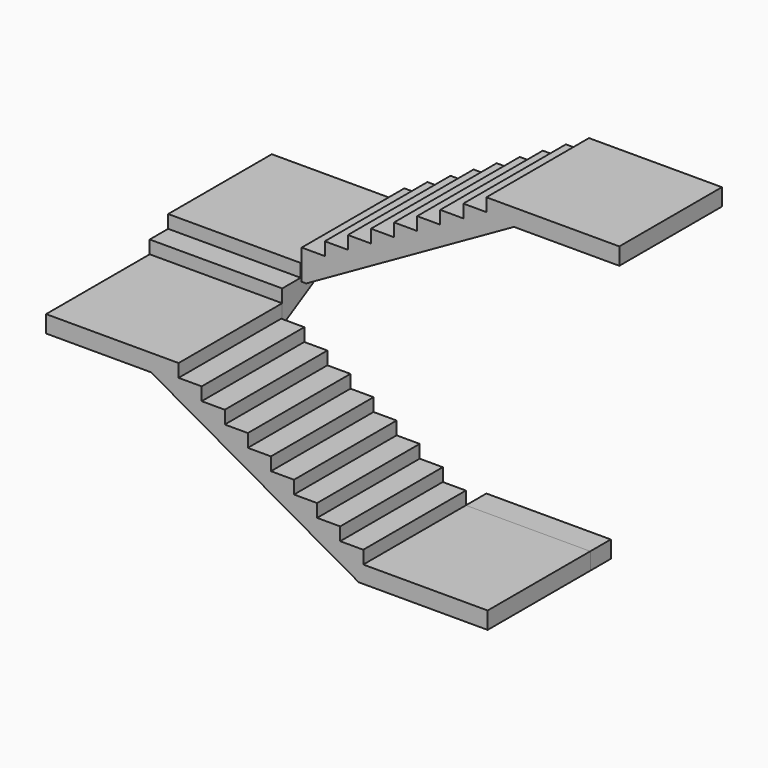
from build123d import *

# Parameters (mm, degrees)
F1_DEPTH = 1500
F3_DEPTH = 15
F5_DEPTH = 1550
F7_DEPTH = 1500
F8_W     = 1455
F8_H     = 200
F9_DEPTH = 300


with BuildPart() as f1:
    # F0 (on Front) → F1 (new body)
    with BuildSketch(Plane.XZ):
        Polygon((-1349.291039, -2094.70706), (-2899.291039, -2094.70706), (-2899.291039, -2294.70706), (-1671.869022, -2294.70706), (-1447.649354, -2421.34965), (712.350646, -3641.34965), (758.130978, -3667.20706), (2265.708961, -3667.20706), (2265.708961, -3467.20706), (810.708961, -3467.20706), (810.708961, -3314.70706), (540.708961, -3314.70706), (540.708961, -3162.20706), (270.708961, -3162.20706), (270.708961, -3009.70706), (0.708961, -3009.70706), (0.708961, -2857.20706), (-269.291039, -2857.20706), (-269.291039, -2704.70706), (-539.291039, -2704.70706), (-539.291039, -2552.20706), (-809.291039, -2552.20706), (-809.291039, -2399.70706), (-1079.291039, -2399.70706), (-1079.291039, -2247.20706), (-1349.291039, -2247.20706), align=None)
    extrude(amount=F1_DEPTH)

    # F2 (on face) → F3 (join)
    with BuildSketch(Plane(origin=(0, 0, 0), x_dir=(-1, 0, 0), z_dir=(0, 1, 0))):
        Polygon((1349.291039, -2294.70706), (1671.869022, -2294.70706), (2899.291039, -2294.70706), (2899.291039, -2094.70706), (1349.291039, -2094.70706), (1349.291039, -2247.20706), align=None)
    extrude(amount=F3_DEPTH)


with BuildPart() as f5:
    # F4 (on face) → F5 (new body)
    with BuildSketch(Plane(origin=(-2899.291039, 0, 0), x_dir=(0, -1, 0), z_dir=(-1, 0, 0))):
        Polygon((-15, -2294.70706), (-15, -2094.70706), (-15, -1942.20706), (-285, -1942.20706), (-285, -1789.70706), (-1800, -1789.70706), (-1800, -1989.70706), (-607.577984, -1989.70706), (-67.577984, -2294.70706), align=None)
    extrude(amount=-F5_DEPTH)


with BuildPart() as f7:
    # F6 (on face) → F7 (new body)
    with BuildSketch(Plane(origin=(0, 1800, 0), x_dir=(-1, 0, 0), z_dir=(0, 1, 0))):
        Polygon((1349.291039, -1989.70706), (1349.291039, -1789.70706), (1349.291039, -1637.20706), (1079.291039, -1637.20706), (1079.291039, -1484.70706), (809.291039, -1484.70706), (809.291039, -1332.20706), (539.291039, -1332.20706), (539.291039, -1179.70706), (269.291039, -1179.70706), (269.291039, -1027.20706), (-0.708961, -1027.20706), (-0.708961, -874.70706), (-270.708961, -874.70706), (-270.708961, -722.20706), (-540.708961, -722.20706), (-540.708961, -569.70706), (-810.708961, -569.70706), (-810.708961, -417.20706), (-2365.708961, -417.20706), (-2365.708961, -617.20706), (-1133.286945, -617.20706), (1296.713055, -1989.70706), align=None)
    extrude(amount=-F7_DEPTH)


with BuildPart() as f9:
    # F8 (on face) → F9 (new body)
    with BuildSketch(Plane(origin=(0, 0, 0), x_dir=(-1, 0, 0), z_dir=(0, 1, 0))):
        with Locations((-1538.208961, -3567.20706)):
            Rectangle(F8_W, F8_H)
    extrude(amount=F9_DEPTH)


solid = Compound([f1.part, f5.part, f7.part, f9.part])
